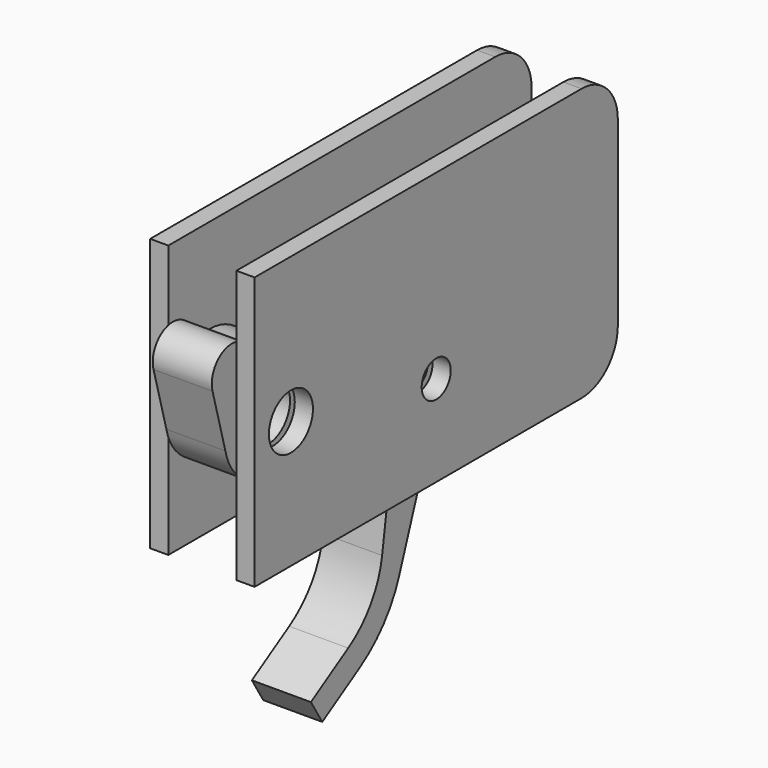
from build123d import *

# Parameters (mm, degrees)
F0_R     = 3
F0_R_2   = 2
F1_DEPTH = 2
F3_START = 0.5
F2_R     = 3
F3_DEPTH = 6.5
F2_R_2   = 2
F5_START = 0.5
F4_R     = 3.0314707769
F4_R_2   = 2
F5_DEPTH = 2


with BuildPart() as f1:
    # F0 (on Right) → F1 (new body)
    with BuildSketch(Plane.YZ):
        with BuildLine():
            Line((25, 10), (-20, 10))
            Line((-20, 10), (-20, -20))
            Line((-20, -20), (25, -20))
            ThreePointArc((25, -20), (28.5355339059, -18.5355339059), (30, -15))
            Line((30, -15), (30, 5))
            ThreePointArc((30, 5), (28.5355339059, 8.5355339059), (25, 10))
        make_face()
        with Locations((-15, -6)):
            Circle(F0_R, mode=Mode.SUBTRACT)
        with Locations((5, -10)):
            Circle(F0_R_2, mode=Mode.SUBTRACT)
    extrude(amount=F1_DEPTH)


with BuildPart() as f3:
    # F2 (on face) → F3 (new body)
    with BuildSketch(Plane.YZ.offset(2).offset(F3_START)):
        with BuildLine():
            Line((-22.6637491681, -0.7594555912), (-20.8968037957, -7.2724931646))
            ThreePointArc((-20.8968037957, -7.2724931646), (-17.9609272097, -11.2558961099), (-13.03272348, -11.7027499466))
            Line((-13.03272348, -11.7027499466), (-3.5083352122, -12.6557552287))
            Line((-3.5083352122, -12.6557552287), (-3.5083352122, -10.1577758701))
            ThreePointArc((-3.5083352122, -10.1577758701), (-3.6738613113, -9.6067284051), (-4.1156418296, -9.2381064147))
            Line((-4.1156418296, -9.2381064147), (-9.0726259367, -7.1215037103))
            ThreePointArc((-9.0726259367, -7.1215037103), (-10.3366335686, -2.173180513), (-14.943107279, 0.0322713034))
            Line((-14.943107279, 0.0322713034), (-15.056892721, 0.0322713034))
            Line((-15.056892721, 0.0322713034), (-17.2302904505, 0.0322713034))
            ThreePointArc((-17.2302904505, 0.0322713034), (-20.3993930013, 2.7409519617), (-22.6637491681, -0.7594555912))
        make_face()
        with Locations((-15, -6)):
            Circle(F2_R, mode=Mode.SUBTRACT)
        with BuildLine():
            ThreePointArc((-14.943107279, 0.0322713034), (-15, 0.0325395862), (-15.056892721, 0.0322713034))
            Line((-15.056892721, 0.0322713034), (-14.943107279, 0.0322713034))
        make_face()
    extrude(amount=F3_DEPTH)


with BuildPart() as f3b:
    # F2 (on face) → F3, piece 2 (new body)
    with BuildSketch(Plane.YZ.offset(2).offset(F3_START)):
        with BuildLine():
            Line((-2.5083352122, -9.497422725), (0.2523448505, -9.497422725))
            ThreePointArc((0.2523448505, -9.497422725), (0.7040515837, -12.0827003001), (2.4539394436, -14.038612259))
            Line((2.4539394436, -14.038612259), (0.6775140536, -26.1783799444))
            ThreePointArc((0.6775140536, -26.1783799444), (-0.8687716335, -30.2355068211), (-3.9888260326, -33.2548674266))
            Line((-3.9888260326, -33.2548674266), (-9.1261887803, -36.4057830215))
            Line((-9.1261887803, -36.4057830215), (-7.5577032005, -38.9630966484))
            Line((-7.5577032005, -38.9630966484), (-2.4203404528, -35.8121810535))
            ThreePointArc((-2.4203404528, -35.8121810535), (0.8719091232, -32.9287608623), (3.0207551338, -29.1162183915))
            Line((3.0207551338, -29.1162183915), (8.8692096956, -12.796789171))
            ThreePointArc((8.8692096956, -12.796789171), (8.2877227219, -6.5382529497), (2.0075366127, -6.2800569612))
            Line((2.0075366127, -6.2800569612), (-3.5083352122, -6.6892408108))
            Line((-3.5083352122, -6.6892408108), (-3.5083352122, -8.497422725))
            ThreePointArc((-3.5083352122, -8.497422725), (-3.2154419934, -9.2045295061), (-2.5083352122, -9.497422725))
        make_face()
        with Locations((5, -10)):
            Circle(F2_R_2, mode=Mode.SUBTRACT)
    extrude(amount=F3_DEPTH)


with BuildPart() as f5:
    # F4 (on face) → F5 (new body)
    with BuildSketch(Plane.YZ.offset(9).offset(F5_START)):
        with BuildLine():
            Line((25, 10), (-20, 10))
            Line((-20, 10), (-20, -20))
            Line((-20, -20), (25, -20))
            ThreePointArc((25, -20), (28.5355339059, -18.5355339059), (30, -15))
            Line((30, -15), (30, 5))
            ThreePointArc((30, 5), (28.5355339059, 8.5355339059), (25, 10))
        make_face()
        with Locations((-15, -6)):
            Circle(F4_R, mode=Mode.SUBTRACT)
        with Locations((5, -10)):
            Circle(F4_R_2, mode=Mode.SUBTRACT)
    extrude(amount=F5_DEPTH)


solid = Compound([f1.part, f3.part, f3b.part, f5.part])
